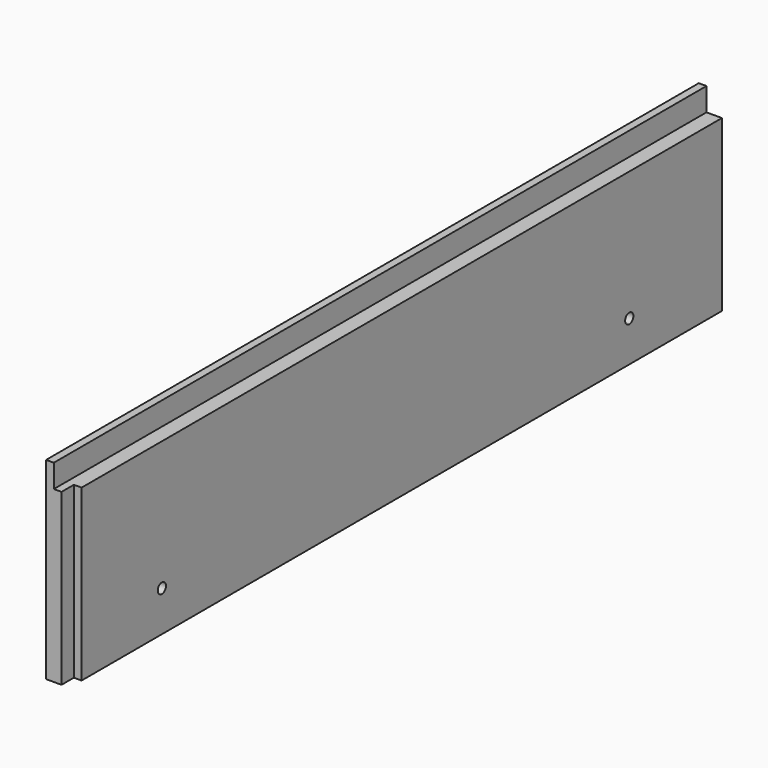
from build123d import *

# Parameters (mm, degrees)
SKETCH028_W             = 634
SKETCH028_H             = 150
PAD011_DEPTH            = 18
SKETCH029_W             = 634
SKETCH029_H             = 18
POCKET017_DEPTH         = 12
SKETCH030_W             = 12
SKETCH030_H             = 132
POCKET018_DEPTH         = 6
SKETCH039_R             = 4
POCKET023_DEPTH         = 18
BODY010_ROLL_ANGLE      = 90
BODY010_PLACEMENT_ANGLE = 90


with BuildPart() as part:
    # Sketch028 → Pad011 (new body)
    with BuildSketch(Plane.XY):
        with Locations((0, 75)):
            Rectangle(SKETCH028_W, SKETCH028_H)
    extrude(amount=PAD011_DEPTH)

    # Sketch029 (on Face6 of Pad011) → Pocket017 (cut)
    with BuildSketch(Plane.XY.offset(18)):
        with Locations((0, 141)):
            Rectangle(SKETCH029_W, SKETCH029_H)
    extrude(amount=-POCKET017_DEPTH, mode=Mode.SUBTRACT)

    # Sketch030 (on Face7 of Pocket017) → Pocket018 (cut)
    with BuildSketch(Plane.XY.offset(18)):
        with Locations((-311, 66)):
            Rectangle(SKETCH030_W, SKETCH030_H)
    extrude(amount=-POCKET018_DEPTH, mode=Mode.SUBTRACT)

    # Sketch039 (on Face2 of Pocket018) → Pocket023 (cut)
    with BuildSketch(Plane(origin=(0, 0, 0), x_dir=(1, 0, 0), z_dir=(0, 0, -1))):
        with Locations((-227, -31.5)):
            Circle(SKETCH039_R)
    pocket023 = extrude(amount=-POCKET023_DEPTH, mode=Mode.SUBTRACT)

    # Mirrored008: Pocket023 across Sketch039 V_Axis
    add(pocket023.mirror(Plane(origin=(0, 0, 0), x_dir=(0, 0, -1), z_dir=(1, 0, 0))), mode=Mode.SUBTRACT)


with BuildPart() as part_1:
    # Body010 roll: moved
    add(part.part.rotate(Axis((0, 0, 0), (1, 0, 0)), BODY010_ROLL_ANGLE))


with BuildPart() as part_2:
    # Body010 placement: moved
    add(part_1.part.moved(Location((-263, 323, 0))).rotate(Axis((-263, 323, 0), (0, 0, 1)), BODY010_PLACEMENT_ANGLE))


solid = part_2.part
